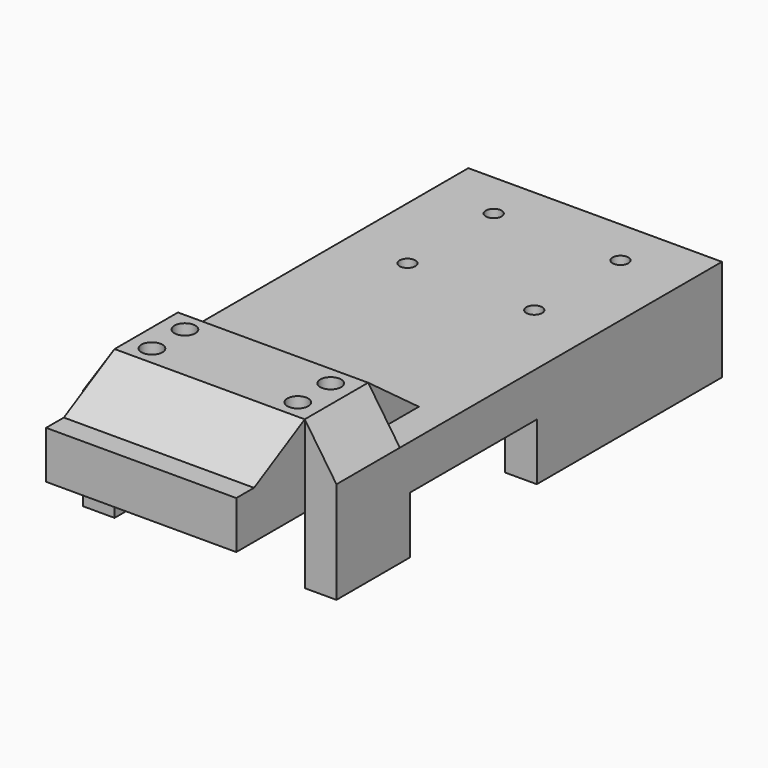
from build123d import *

# Parameters (mm, degrees)
SKETCH_W        = 60
SKETCH_H        = 25
SKETCH_R        = 3.3
PAD_DEPTH       = 25.9
SKETCH001_W     = 60
SKETCH001_H     = 11.1
PAD001_DEPTH    = 127
SKETCH002_R     = 2.5
POCKET_DEPTH    = 11.101
PAD002_DEPTH    = 60
SKETCH004_W     = 152
SKETCH004_H     = 32.1
PAD003_DEPTH    = 10
SKETCH005_W     = 152
SKETCH005_H     = 32.1
PAD004_DEPTH    = 10
PAD005_DEPTH    = 25
SKETCH007_W     = 50
SKETCH007_H     = 18
POCKET001_DEPTH = 10
POCKET002_DEPTH = 10
SKETCH009_W     = 60
SKETCH009_H     = 15
PAD006_DEPTH    = 27
PAD007_DEPTH    = 60


with BuildPart() as part:
    # Sketch → Pad (new body)
    with BuildSketch(Plane.XY):
        Rectangle(SKETCH_W, SKETCH_H)
        with Locations((-23, 6.5)):
            Circle(SKETCH_R, mode=Mode.SUBTRACT)
        with Locations((-23, -6.5)):
            Circle(SKETCH_R, mode=Mode.SUBTRACT)
        with Locations((23, -6.5)):
            Circle(SKETCH_R, mode=Mode.SUBTRACT)
        with Locations((23, 6.5)):
            Circle(SKETCH_R, mode=Mode.SUBTRACT)
    extrude(amount=PAD_DEPTH)

    # Sketch001 (on Face1 of Pad) → Pad001 (join)
    with BuildSketch(Plane(origin=(0, 12.5, 0), x_dir=(-1, 0, 0), z_dir=(0, 1, 0))):
        with Locations((0, 5.55)):
            Rectangle(SKETCH001_W, SKETCH001_H)
    extrude(amount=PAD001_DEPTH)

    # Sketch002 (on Face2 of Pad001) → Pocket (cut, through all)
    with BuildSketch(Plane.XY.offset(11.1)):
        with Locations((-20, 124.5)):
            Circle(SKETCH002_R)
        with Locations((20, 124.5)):
            Circle(SKETCH002_R)
        with Locations((-20, 90.5)):
            Circle(SKETCH002_R)
        with Locations((20, 90.5)):
            Circle(SKETCH002_R)
    extrude(amount=-POCKET_DEPTH, mode=Mode.SUBTRACT)

    # Sketch003 (on Face6 of Pocket) → Pad002 (join)
    with BuildSketch(Plane.YZ.offset(30)):
        Polygon((12.5, 25.9), (32.5, 11.1), (12.5, 0), align=None)
    extrude(amount=-PAD002_DEPTH)

    # Sketch004 (on Face7 of Pad002) → Pad003 (join)
    with BuildSketch(Plane.YZ.offset(30)):
        with Locations((63.5, -4.95)):
            Rectangle(SKETCH004_W, SKETCH004_H)
    extrude(amount=PAD003_DEPTH)

    # Sketch005 (on Face20 of Pad003) → Pad004 (join)
    with BuildSketch(Plane(origin=(-30, 0, 0), x_dir=(0, -1, 0), z_dir=(-1, 0, 0))):
        with Locations((-63.5, -4.95)):
            Rectangle(SKETCH005_W, SKETCH005_H)
    extrude(amount=PAD004_DEPTH)

    # Sketch006 (on Face3 of Pad004) → Pad005 (join)
    with BuildSketch(Plane.XZ.offset(12.5)):
        Polygon((40, 11.1), (30, 11.1), (30, 25.9), align=None)
        Polygon((-30, 25.9), (-30, 11.1), (-40, 11.1), align=None)
    extrude(amount=-PAD005_DEPTH)

    # Sketch007 (on Face5 of Pad005) → Pocket001 (cut)
    with BuildSketch(Plane.YZ.offset(40)):
        with Locations((41.5, -12)):
            Rectangle(SKETCH007_W, SKETCH007_H)
    extrude(amount=-POCKET001_DEPTH, mode=Mode.SUBTRACT)

    # Sketch008 (on Face25 of Pocket001) → Pocket002 (cut)
    with BuildSketch(Plane(origin=(-40, 0, 0), x_dir=(0, -1, 0), z_dir=(-1, 0, 0))):
        with BuildLine():
            ThreePointArc((-31.5, -21), (-41.297959, -13), (-51.095918, -21))
            Line((-51.095918, -21), (-31.5, -21))
        make_face()
    extrude(amount=-POCKET002_DEPTH, mode=Mode.SUBTRACT)

    # Sketch009 (on Face29 of Pocket002) → Pad006 (join)
    with BuildSketch(Plane.XZ.offset(12.5)):
        with Locations((0, 7.5)):
            Rectangle(SKETCH009_W, SKETCH009_H)
    extrude(amount=PAD006_DEPTH)

    # Sketch010 (on Face29 of Pad006) → Pad007 (join)
    with BuildSketch(Plane.YZ.offset(30)):
        Polygon((-32.5, 15), (-12.5, 15), (-12.5, 25.9), align=None)
    extrude(amount=-PAD007_DEPTH)


solid = part.part
